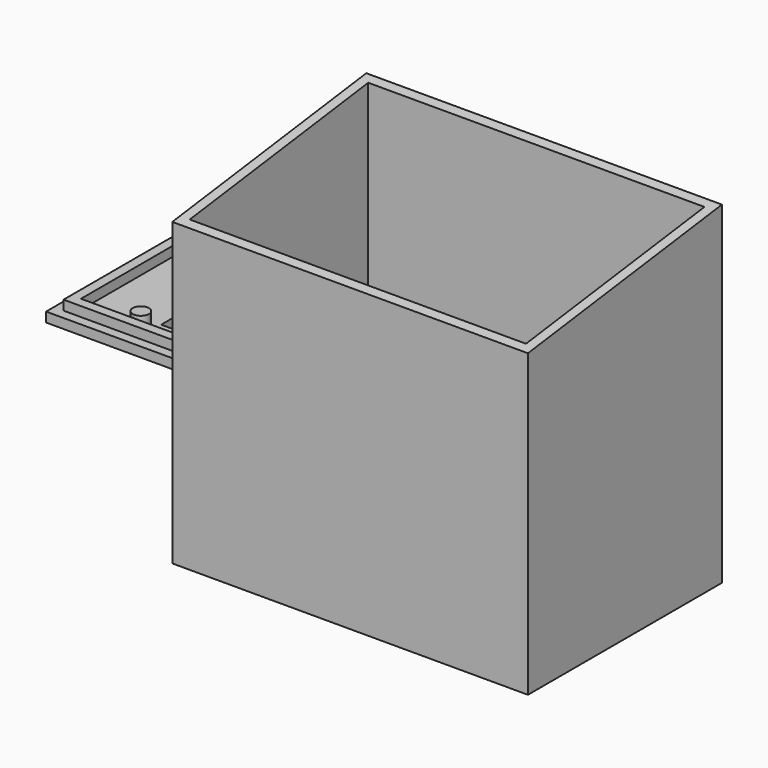
from build123d import *

# Parameters (mm, degrees)
SKETCH_W        = 110
SKETCH_H        = 75
PAD_DEPTH       = 3
SKETCH001_W     = 110
SKETCH001_H     = 75
SKETCH001_W_2   = 104
SKETCH001_H_2   = 69
PAD001_DEPTH    = 100
POCKET_DEPTH    = 120
SKETCH003_W     = 13
SKETCH003_H     = 11.7
POCKET001_DEPTH = 5
SKETCH004_W     = 9.7
SKETCH004_H     = 12.2
POCKET002_DEPTH = 5
SKETCH005_W     = 30
SKETCH005_H     = 4
POCKET003_DEPTH = 5
PAD002_DEPTH    = 3
SKETCH007_W     = 110
SKETCH007_H     = 75.66
PAD003_DEPTH    = 3
SKETCH009_W     = 104
SKETCH009_H     = 69.66
SKETCH009_W_2   = 98
SKETCH009_H_2   = 63.66
PAD004_DEPTH    = 3
SKETCH010_W     = 72
SKETCH010_H     = 25
POCKET004_DEPTH = 5
SKETCH011_R     = 2.5
POCKET005_DEPTH = 5
SKETCH012_R     = 2.5
PAD005_DEPTH    = 4


with BuildPart() as box:
    # Sketch → Pad (new body)
    with BuildSketch(Plane.XY):
        with Locations((9.68629, 1.349086)):
            Rectangle(SKETCH_W, SKETCH_H)
    extrude(amount=PAD_DEPTH)

    # Sketch001 (on Face6 of Pad) → Pad001 (join)
    with BuildSketch(Plane.XY.offset(3)):
        with Locations((9.68629, 1.349086)):
            Rectangle(SKETCH001_W, SKETCH001_H)
        with Locations((9.68629, 1.349086)):
            Rectangle(SKETCH001_W_2, SKETCH001_H_2, mode=Mode.SUBTRACT)
    extrude(amount=PAD001_DEPTH)

    # Sketch002 (on Face7 of Pad001) → Pocket (cut)
    with BuildSketch(Plane(origin=(-45.31371, 0, 0), x_dir=(0, -1, 0), z_dir=(-1, 0, 0))):
        Polygon((-38.849086, 103), (36.150914, 93), (36.150914, 103), align=None)
    extrude(amount=-POCKET_DEPTH, mode=Mode.SUBTRACT)

    # Sketch003 (on Face7 of Pocket) → Pocket001 (cut)
    with BuildSketch(Plane(origin=(-45.31371, 0, 0), x_dir=(0, -1, 0), z_dir=(-1, 0, 0))):
        with Locations((-20.049086, 11.85)):
            Rectangle(SKETCH003_W, SKETCH003_H)
    extrude(amount=-POCKET001_DEPTH, mode=Mode.SUBTRACT)

    # Sketch004 (on Face7 of Pocket001) → Pocket002 (cut)
    with BuildSketch(Plane(origin=(-45.31371, 0, 0), x_dir=(0, -1, 0), z_dir=(-1, 0, 0))):
        with Locations((10.500914, 12.1)):
            Rectangle(SKETCH004_W, SKETCH004_H)
    extrude(amount=-POCKET002_DEPTH, mode=Mode.SUBTRACT)

    # Sketch005 (on Face4 of Pocket002) → Pocket003 (cut)
    with BuildSketch(Plane(origin=(0, 0, 0), x_dir=(1, 0, 0), z_dir=(0, 0, -1))):
        with Locations((-0.31371, 29.550914)):
            Rectangle(SKETCH005_W, SKETCH005_H)
    extrude(amount=-POCKET003_DEPTH, mode=Mode.SUBTRACT)

    # Sketch006 (on Face23 of Pocket003) → Pad002 (join)
    with BuildSketch(Plane.XY.offset(3)):
        Polygon((-32.933384, -21.650914), (31.18629, -21.650914), (31.18629, 29.796738), (28.18629, 29.796738), (28.18629, -18.650914), (-32.933384, -18.650914), align=None)
    extrude(amount=PAD002_DEPTH)


with BuildPart() as lid:
    # Sketch007 → Pad003 (new body)
    with BuildSketch(Plane.XY):
        with Locations((-92.817357, 81.01438)):
            Rectangle(SKETCH007_W, SKETCH007_H)
    extrude(amount=PAD003_DEPTH)

    # Sketch009 (on Face6 of Pad003) → Pad004 (join)
    with BuildSketch(Plane.XY.offset(3)):
        with Locations((-92.817357, 81.01438)):
            Rectangle(SKETCH009_W, SKETCH009_H)
        with Locations((-92.817357, 81.01438)):
            Rectangle(SKETCH009_W_2, SKETCH009_H_2, mode=Mode.SUBTRACT)
    extrude(amount=PAD004_DEPTH)

    # Sketch010 (on Face16 of Pad004) → Pocket004 (cut)
    with BuildSketch(Plane.XY.offset(3)):
        with Locations((-85.817357, 67.68438)):
            Rectangle(SKETCH010_W, SKETCH010_H)
    extrude(amount=-POCKET004_DEPTH, mode=Mode.SUBTRACT)

    # Sketch011 (on Face15 of Pocket004) → Pocket005 (cut)
    with BuildSketch(Plane.XY.offset(3)):
        with Locations((-131.817357, 102.84438)):
            Circle(SKETCH011_R)
        with Locations((-121.817357, 102.84438)):
            Circle(SKETCH011_R)
        with Locations((-111.817357, 102.84438)):
            Circle(SKETCH011_R)
        with Locations((-101.817357, 102.84438)):
            Circle(SKETCH011_R)
    extrude(amount=-POCKET005_DEPTH, mode=Mode.SUBTRACT)

    # Sketch012 (on Face19 of Pocket005) → Pad005 (join)
    with BuildSketch(Plane.XY.offset(3)):
        with Locations((-125.317357, 83.68438)):
            Circle(SKETCH012_R)
        with Locations((-46.317357, 83.68438)):
            Circle(SKETCH012_R)
        with Locations((-46.317357, 51.68438)):
            Circle(SKETCH012_R)
        with Locations((-125.317357, 51.68438)):
            Circle(SKETCH012_R)
    extrude(amount=PAD005_DEPTH)


solid = Compound([box.part, lid.part])
